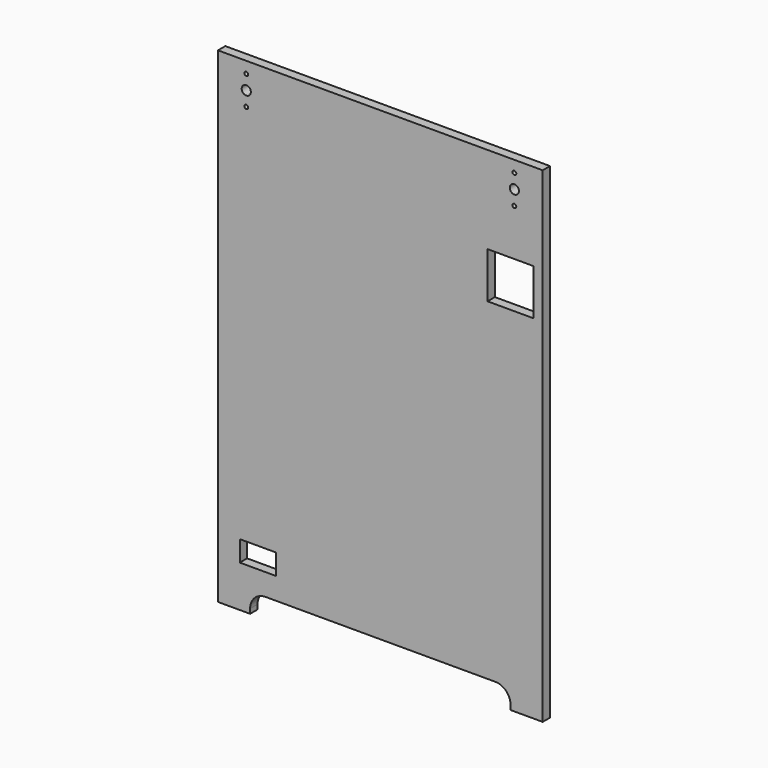
from build123d import *

# Parameters (mm, degrees)
F1_R     = 2.5
F1_R_2   = 6
F1_W     = 400
F1_H     = 12
F1_H_2   = 60
F1_W_2   = 47
F1_H_3   = 27
F2_DEPTH = 12


with BuildPart() as f2:
    # F1 (on Front) → F2 (new body)
    with BuildSketch(Plane.XZ):
        Polygon((200, 260), (200, 374), (-200, 374), (-200, -150), (200, -150), (200, 200), (140, 200), (140, 260), align=None)
        with Locations((-175, 321)):
            Circle(F1_R, mode=Mode.SUBTRACT)
        with Locations((-175, 340)):
            Circle(F1_R_2, mode=Mode.SUBTRACT)
        with Locations((-175, 359)):
            Circle(F1_R, mode=Mode.SUBTRACT)
        with Locations((175, 321)):
            Circle(F1_R, mode=Mode.SUBTRACT)
        with Locations((175, 340)):
            Circle(F1_R_2, mode=Mode.SUBTRACT)
        with Locations((175, 359)):
            Circle(F1_R, mode=Mode.SUBTRACT)
        Polygon((212, 374), (200, 374), (200, 260), (200, 200), (200, -150), (200, -162), (200, -222), (200, -234), (200, -260), (212, -260), align=None)
        Polygon((-200, -150), (-200, 374), (-212, 374), (-212, -260), (-200, -260), (-200, -234), (-200, -222), (-200, -162), align=None)
        with Locations((0, -156)):
            Rectangle(F1_W, F1_H)
        with Locations((0, -192)):
            Rectangle(F1_W, F1_H_2)
        with Locations((-160, -192)):
            Rectangle(F1_W_2, F1_H_3, mode=Mode.SUBTRACT)
        Polygon((200, -222), (-200, -222), (-200, -234), (-150, -234), (150, -234), (200, -234), align=None)
        with BuildLine():
            Line((-200, -234), (-200, -260))
            Line((-200, -260), (-170, -260))
            Line((-170, -260), (-170, -254))
            ThreePointArc((-170, -254), (-164.1421356237, -239.8578643763), (-150, -234))
            Line((-150, -234), (-200, -234))
        make_face()
        with BuildLine():
            Line((170, -260), (200, -260))
            Line((200, -260), (200, -234))
            Line((200, -234), (150, -234))
            ThreePointArc((150, -234), (164.1421356237, -239.8578643763), (170, -254))
            Line((170, -254), (170, -260))
        make_face()
    extrude(amount=F2_DEPTH)


solid = f2.part
